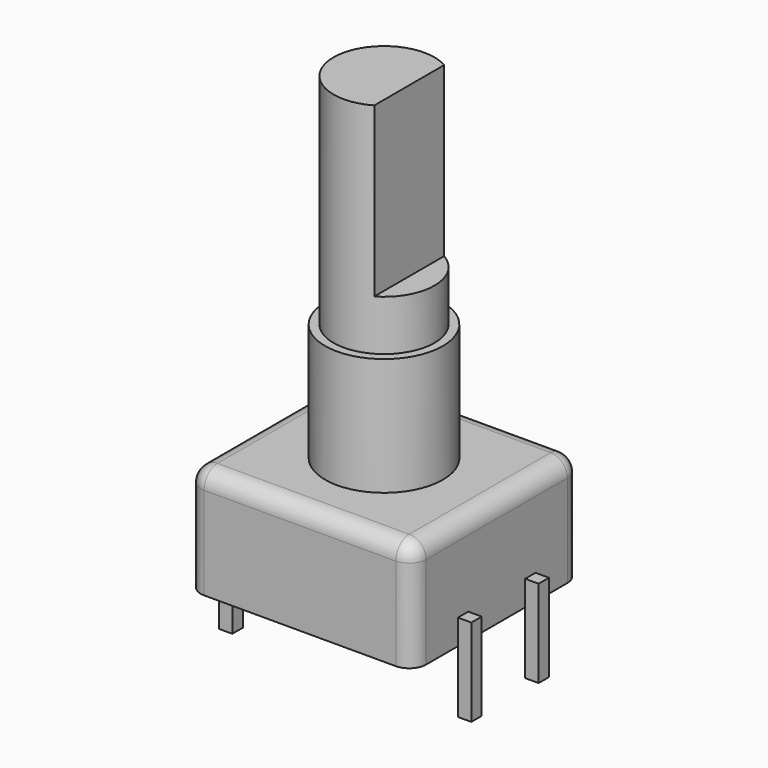
from build123d import *

# Parameters (mm, degrees)
SKETCH_W      = 13.4
SKETCH_H      = 12.5
PAD_DEPTH     = 6.5
SKETCH001_W   = 0.8
SKETCH001_H   = 0.8
SKETCH001_H_2 = 0.76989
PAD001_DEPTH  = 5.2
SKETCH002_R   = 3.5
PAD002_DEPTH  = 7
SKETCH003_R   = 3
PAD003_DEPTH  = 13
POCKET_DEPTH  = 10
FILLET_R      = 1


with BuildPart() as part:
    # Sketch → Pad (new body)
    with BuildSketch(Plane.XY):
        with Locations((7.5, -2.5)):
            Rectangle(SKETCH_W, SKETCH_H)
    extrude(amount=PAD_DEPTH)

    # Sketch001 (on DatumPlane) → Pad001 (join)
    with BuildSketch(Plane(origin=(0, 0, 1.5), x_dir=(1, 0, 0), z_dir=(0, 0, -1))):
        with Locations((0.4, 5)):
            Rectangle(SKETCH001_W, SKETCH001_H)
        with Locations((0.4, 2.5)):
            Rectangle(SKETCH001_W, SKETCH001_H)
        with Locations((0.4, 0)):
            Rectangle(SKETCH001_W, SKETCH001_H)
        with Locations((14.6, 5)):
            Rectangle(SKETCH001_W, SKETCH001_H_2)
        with Locations((14.6, 0)):
            Rectangle(SKETCH001_W, SKETCH001_H_2)
    extrude(amount=PAD001_DEPTH)

    # Sketch002 (on Face5 of Pad001) → Pad002 (join)
    with BuildSketch(Plane.XY.offset(6.5)):
        with Locations((7.5, -2.5)):
            Circle(SKETCH002_R)
    extrude(amount=PAD002_DEPTH)

    # Sketch003 (on Face38 of Pad002) → Pad003 (join)
    with BuildSketch(Plane.XY.offset(13.5)):
        with Locations((7.5, -2.5)):
            Circle(SKETCH003_R)
    extrude(amount=PAD003_DEPTH)

    # Sketch004 (on Face40 of Pad003) → Pocket (cut)
    with BuildSketch(Plane.XY.offset(26.5)):
        with BuildLine():
            Line((9, 0.098076), (9, -5.098076))
            ThreePointArc((9, -5.098076), (10.5, -2.5), (9, 0.098076))
        make_face()
    extrude(amount=-POCKET_DEPTH, mode=Mode.SUBTRACT)

    # Fillet
    fillet_edges = [part.edges().sort_by_distance(p)[0] for p in [
        (0.8, 3.75, 3.25),
        (7.5, 3.75, 6.5),
        (0.8, -2.5, 6.5),
        (14.2, -2.5, 6.5),
        (14.2, 3.75, 3.25),
        (0.8, -8.75, 3.25),
        (7.5, -8.75, 6.5),
        (14.2, -8.75, 3.25),
    ]]
    fillet(fillet_edges, radius=FILLET_R)


solid = part.part
